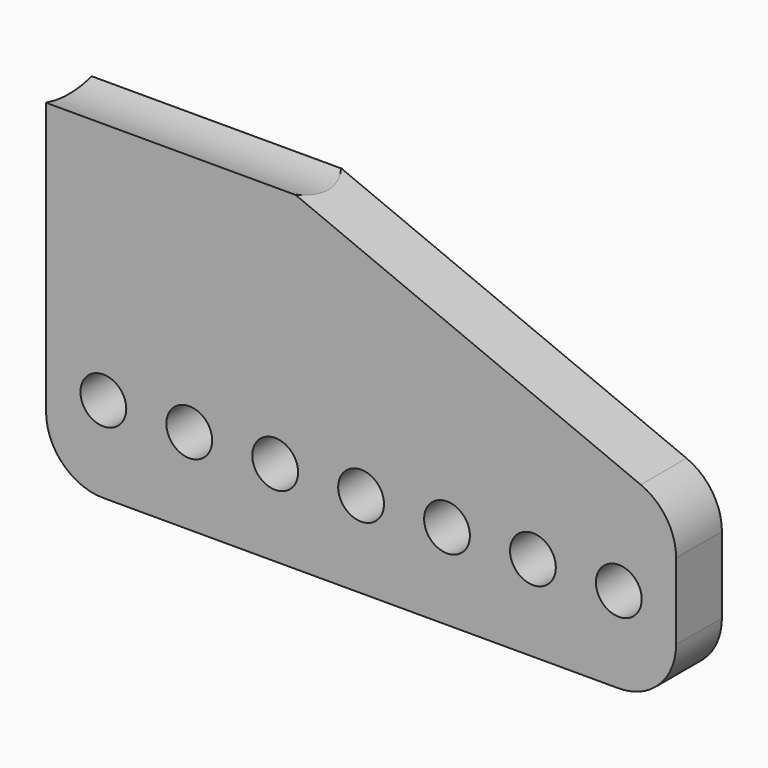
from build123d import *

# Parameters (mm, degrees)
F0_R     = 10.16
F1_DEPTH = 25.4
F3_DEPTH = 152.4


with BuildPart() as f1:
    # F0 (on Front) → F1 (new body)
    with BuildSketch(Plane.XZ):
        with BuildLine():
            Line((0, 146.05), (0, 25.4))
            ThreePointArc((0, 25.4), (7.439488, 7.439488), (25.4, 0))
            Line((25.4, 0), (254, 0))
            ThreePointArc((254, 0), (271.960512, 7.439488), (279.4, 25.4))
            Line((279.4, 25.4), (279.4, 59.22473))
            ThreePointArc((279.4, 59.22473), (275.117971, 73.338244), (263.715646, 82.693139))
            Line((263.715646, 82.693139), (110.67542, 146.05))
            Line((110.67542, 146.05), (0, 146.05))
        make_face()
        with Locations((25.4, 38.1)):
            Circle(F0_R, mode=Mode.SUBTRACT)
        with Locations((63.5, 38.1)):
            Circle(F0_R, mode=Mode.SUBTRACT)
        with Locations((101.6, 38.1)):
            Circle(F0_R, mode=Mode.SUBTRACT)
        with Locations((139.7, 38.1)):
            Circle(F0_R, mode=Mode.SUBTRACT)
        with Locations((177.8, 38.1)):
            Circle(F0_R, mode=Mode.SUBTRACT)
        with Locations((215.9, 38.1)):
            Circle(F0_R, mode=Mode.SUBTRACT)
        with Locations((254, 38.1)):
            Circle(F0_R, mode=Mode.SUBTRACT)
    extrude(amount=F1_DEPTH)

    # F2 (on face) → F3 (cut)
    with BuildSketch(Plane(origin=(0, 0, 0), x_dir=(0, -1, 0), z_dir=(-1, 0, 0))):
        with BuildLine():
            Line((25.146, 146.05), (0.254, 146.05))
            ThreePointArc((0.254, 146.05), (12.7, 144.272), (25.146, 146.05))
        make_face()
    extrude(amount=-F3_DEPTH, mode=Mode.SUBTRACT)


solid = f1.part
